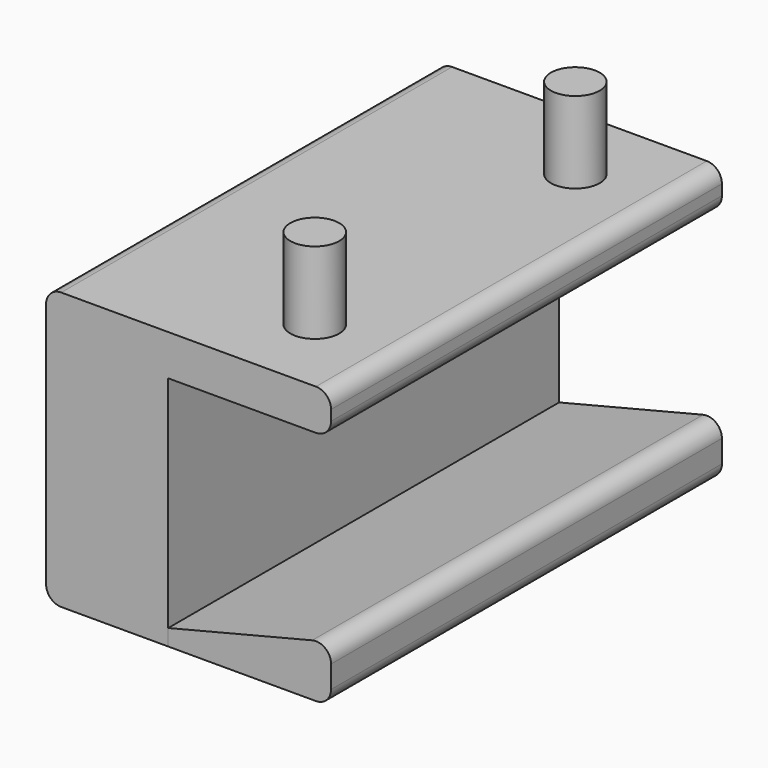
from build123d import *

# Parameters (mm, degrees)
F0_W     = 15
F0_H     = 60
F1_DEPTH = 29
F2_W     = 15
F2_H     = 60
F2_W_2   = 20
F3_DEPTH = 5
F4_R     = 3
F5_DEPTH = 10
F7_DEPTH = 60
F8_R     = 1.860778
F8_2_R   = 1.860778


with BuildPart() as f1:
    # F0 (on Top) → F1 (new body)
    with BuildSketch(Plane.XY):
        Rectangle(F0_W, F0_H)
    extrude(amount=-F1_DEPTH)

    # F2 (on face) → F3 (join)
    with BuildSketch(Plane.XY):
        Rectangle(F2_W, F2_H)
        with Locations((17.5, 0)):
            Rectangle(F2_W_2, F2_H)
    extrude(amount=F3_DEPTH)

    # F8#2
    f8_2_edges = [f1.edges().sort_by_distance(p)[0] for p in [
        (27.5, 0, 5),
        (27.5, 0, 0),
        (-7.5, 0, 5),
        (-7.5, 0, -29),
    ]]
    fillet(f8_2_edges, radius=F8_2_R)


with BuildPart() as f5:
    # F4 (on face) → F5 (new body)
    with BuildSketch(Plane.XY.offset(5)):
        with Locations((17.5, -20)):
            Circle(F4_R)
        with Locations((17.5, 20)):
            Circle(F4_R)
    extrude(amount=F5_DEPTH)


with BuildPart() as f7:
    # F6 (on face) → F7 (new body, through all)
    with BuildSketch(Plane.XZ.offset(30)):
        Polygon((27.5, -22), (7.5, -27), (7.5, -29), (27.5, -29), align=None)
    extrude(amount=-F7_DEPTH)

    # F8
    f8_edges = [f7.edges().sort_by_distance(p)[0] for p in [
        (27.5, 0, -22),
        (27.5, 0, -29),
    ]]
    fillet(f8_edges, radius=F8_R)


solid = Compound([f1.part, f5.part, f7.part])
